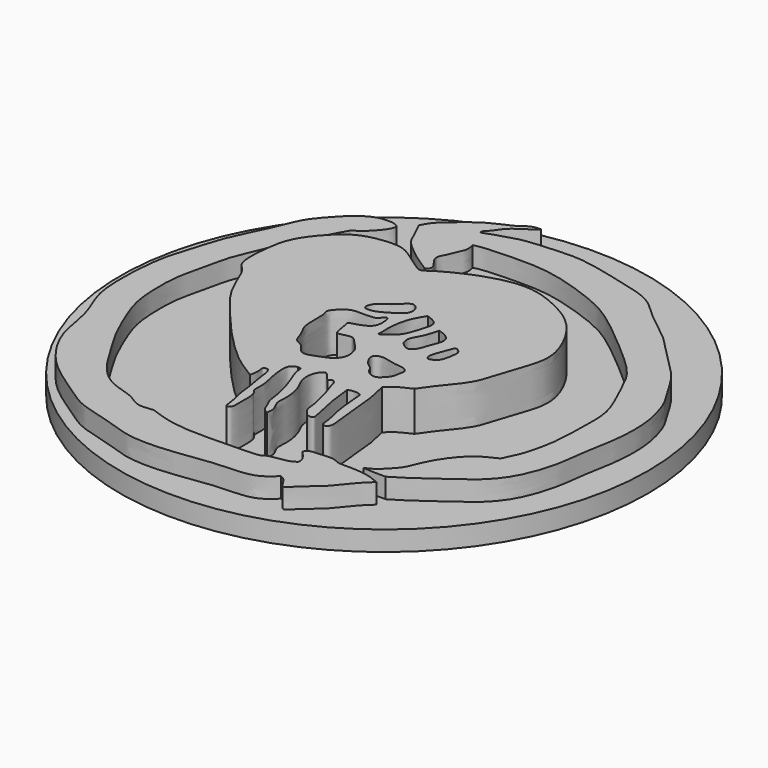
from build123d import *

# Parameters (mm, degrees)
F1_DEPTH = 2.5
F2_DEPTH = 5
F3_R     = 33.2073024062
F4_DEPTH = 2.5


with BuildPart() as f1:
    # F0 (on Top) → F1 (new body)
    with BuildSketch(Plane.XY):
        with BuildLine():
            add(Edge.make_bspline(
                [(34.7118526697, 65.6749159098), (35.2326607955, 66.0444424847), (36.2611343323, 66.7741705451), (37.4148923919, 68.1495157399), (37.8726544228, 69.0916354904), (37.5784563957, 69.5421438923), (37.0983525122, 69.64263447), (36.8212088943, 69.7006434202)],
                knots=[0, 0, 0, 0, 0.2655577649, 0.5244141176, 0.7094420157, 0.8322731939, 1, 1, 1, 1], degree=3))
            add(Edge.make_bspline(
                [(36.8212088943, 69.7006434202), (36.2704336366, 69.7096377101), (35.0826391067, 69.729034675), (33.0561657593, 68.5081512882), (31.4902472814, 66.8426275387), (29.5812318593, 64.6923044475), (28.7322620621, 62.0910658547), (27.0684525034, 58.7960648264), (25.7989685176, 55.9485771438), (25.0076935395, 52.8210715361), (24.0299638992, 50.2254922171), (23.6550974683, 46.6462323896), (23.5545603617, 44.5146096416), (23.5884571025, 39.6703258772), (25.6743630292, 35.9956811898), (26.0359713713, 31.1238433101), (28.4730569899, 26.9930051522), (31.1585605984, 24.3816132893), (34.8588473512, 22.0156926687), (37.2386408509, 20.2447628922), (41.6922339228, 19.275513705), (44.9392749536, 17.8724141659), (50.2227695975, 17.9581770095), (55.2715978544, 18.9472902649), (60.0285037844, 18.7552860261), (61.4710654048, 20.1249941503), (62.0954409242, 20.7178369164)],
                knots=[0, 0, 0, 0, 0.0289877039, 0.0625144932, 0.096706835, 0.1339329384, 0.1709821896, 0.213709129, 0.2535798432, 0.2931080396, 0.3309258548, 0.3722860033, 0.4057647429, 0.453597648, 0.4997635275, 0.5485601575, 0.5967164535, 0.6402757678, 0.6863578212, 0.7251840232, 0.7717780639, 0.814144168, 0.8645222178, 0.9164315115, 0.9638295393, 1, 1, 1, 1], degree=3))
            add(Edge.make_bspline(
                [(62.0954409242, 20.7178369164), (62.3103137754, 20.6108868846), (62.7960268201, 20.3691298393), (63.3675821674, 19.2505827969), (63.836658855, 18.9579182012), (64.8361463425, 20.2402681563), (67.1404858531, 21.8715764779), (68.7213264589, 24.2581727275), (69.9631789875, 25.3075227018), (70.1304834806, 25.5213443559), (70.1823234558, 25.5875978619)],
                knots=[0, 0, 0, 0, 0.0977587794, 0.22098052, 0.288687055, 0.4183923972, 0.6101179817, 0.8020862474, 0.9386756218, 1, 1, 1, 1], degree=3))
            add(Edge.make_bspline(
                [(70.1823234558, 25.5875978619), (69.7429791573, 25.7671780636), (68.8085511871, 26.1491217101), (67.1406223218, 26.430622982), (64.9634246663, 26.356971648), (64.5883404163, 26.4693612455), (63.7540282111, 26.9073980608), (62.1631773589, 26.7400292134), (60.6401735091, 26.6683040378), (60.5428832484, 26.2511067311), (60.5074763298, 26.0992757976)],
                knots=[0, 0, 0, 0, 0.1379288692, 0.2933566994, 0.4595300648, 0.5305999117, 0.6352647261, 0.7859208029, 0.9220899948, 1, 1, 1, 1], degree=3))
            add(Edge.make_bspline(
                [(60.5074763298, 26.0992757976), (60.6363447658, 25.9447694141), (60.9258960873, 25.5976128185), (61.6027046406, 24.7575978509), (61.5402193347, 24.3147209084), (61.5131892264, 24.1231396794)],
                knots=[0, 0, 0, 0, 0.3127482065, 0.7027062586, 1, 1, 1, 1], degree=3))
            add(Edge.make_bspline(
                [(61.5131892264, 24.1231396794), (61.2563435452, 23.9534794127), (60.6293894678, 23.5393428173), (58.2406367023, 23.388419651), (57.8849118678, 22.7136947651), (54.2156531332, 22.7490350651), (49.9835501682, 22.5468737617), (46.3591721862, 22.8667454603), (44.4743991194, 23.5516896253), (43.5816496611, 23.8761231303)],
                knots=[0, 0, 0, 0, 0.0952062085, 0.2323960456, 0.3054817729, 0.4725808666, 0.6698017517, 0.8435969229, 1, 1, 1, 1], degree=3))
            add(Edge.make_bspline(
                [(43.5816496611, 23.8761231303), (42.8300010198, 23.7855173301), (41.3829789139, 23.6110892948), (39.9807606555, 24.9815293288), (36.6761157745, 25.5673905419), (34.1362987275, 27.9893324173), (32.5510096325, 30.7895428732), (30.4048170868, 34.1644167366), (29.0154797001, 37.5020404528), (27.7014810967, 40.7998376033), (27.5112270101, 44.2625386946), (27.5474780533, 47.5704417933), (28.534917299, 50.9223452409), (28.9646618514, 53.7636921523), (30.2852635731, 56.5626181982), (31.4574668844, 59.7348292713), (33.1452064144, 62.7742480897), (34.1944918387, 64.717014974), (34.7118526697, 65.6749159098)],
                knots=[0, 0, 0, 0, 0.0507885336, 0.0977745808, 0.1608646394, 0.2256180668, 0.2887845933, 0.3587098574, 0.4258154258, 0.491507373, 0.5564236918, 0.6203758771, 0.6856006618, 0.7449412084, 0.8061343063, 0.870855552, 0.9363240188, 1, 1, 1, 1], degree=3))
        make_face()
    extrude(amount=F1_DEPTH)


with BuildPart() as f1b:
    # F0 (on Top) → F1, piece 2 (new body)
    with BuildSketch(Plane.XY):
        with BuildLine():
            add(Edge.make_bspline(
                [(67.3089176416, 27.1220263094), (67.658164969, 27.2828355743), (68.3997166779, 27.6242795191), (69.4606031622, 28.6974096127), (70.4265682539, 29.749803922), (70.9616218915, 31.2810921959), (71.8373726468, 33.0337940737), (72.9768363636, 34.6040965084), (74.3711808633, 36.0554510196), (75.8276504729, 36.753454526), (76.5967667103, 37.1220484376)],
                knots=[0, 0, 0, 0, 0.1032528852, 0.2192353311, 0.332159178, 0.4520714466, 0.5851843868, 0.7173143032, 0.8507224881, 1, 1, 1, 1], degree=3))
            add(Edge.make_bspline(
                [(70.1823234558, 27.034856379), (69.8396790131, 27.0298549014), (69.0597594991, 27.0184706515), (67.937904582, 27.0848241165), (67.3089176416, 27.1220263094)],
                knots=[0, 0, 0, 0, 0.4393330806, 1, 1, 1, 1], degree=3))
            add(Edge.make_bspline(
                [(45.0084544718, 73.7691968679), (44.9839728131, 73.6341418448), (44.9285162968, 73.3290786428), (45.6005902762, 73.6574050342), (47.4334020026, 74.2053385797), (49.2339629419, 74.8241096766), (52.4980247548, 75.0267670409), (55.9263681007, 75.2647907553), (59.269364707, 74.5958440135), (63.0580918437, 73.62161974), (66.6872261032, 72.6974172649), (68.7928699874, 70.4987618345), (70.6850085595, 68.9668290012), (73.250092566, 67.0926972703), (75.1913672862, 64.7642833742), (78.8625320051, 61.4864650608), (80.3225958717, 58.6782960465), (81.9345148694, 56.3614887373), (82.8342048329, 53.2064634181), (83.095115943, 50.6109278985), (82.9564631728, 47.1892705207), (82.0881412498, 43.1779726959), (81.8174322914, 39.6626216764), (80.385016426, 35.2397785595), (78.1548349655, 32.5471593294), (76.0557495983, 31.0985008718), (73.4879651941, 29.1613428557), (71.3562714682, 27.7218887483), (70.5266195357, 27.2363495874), (70.1823234558, 27.034856379)],
                knots=[0, 0, 0, 0, 0.0124098952, 0.0280319177, 0.0588750577, 0.0899339363, 0.1295652748, 0.1708128213, 0.2114766235, 0.2555106931, 0.2980579703, 0.3357763852, 0.3704402569, 0.4090745544, 0.4482997553, 0.497033527, 0.5364563837, 0.5733059162, 0.6128618858, 0.6485918363, 0.6893335895, 0.7340057804, 0.7759951527, 0.8233422964, 0.8641853762, 0.8993496766, 0.9392729639, 0.9747968839, 1, 1, 1, 1], degree=3))
            add(Edge.make_bspline(
                [(49.2378622293, 77.6719376445), (48.993220912, 77.4405925331), (48.4388411992, 76.9620166329), (47.3182601057, 76.3178225344), (46.2933206041, 75.4836116502), (45.7448009924, 74.5004152969), (45.2499205118, 74.0090819481), (45.0084544718, 73.7691968679)],
                knots=[0, 0, 0, 0, 0.1906614848, 0.4029487049, 0.6159662038, 0.8117872505, 1, 1, 1, 1], degree=3))
            add(Edge.make_bspline(
                [(39.3222160637, 70.8313211799), (39.5246124876, 71.2276909414), (39.9840769244, 72.1274686655), (41.7268378676, 73.5865050561), (43.5072966927, 75.0832698896), (45.4494218537, 76.0768852538), (47.0009816856, 76.6622295813), (48.0210677715, 77.6445263811), (48.8510057218, 77.6614886975), (49.2378622293, 77.6719376445)],
                knots=[0, 0, 0, 0, 0.1285496042, 0.2909927153, 0.4588104007, 0.6185878275, 0.7580308662, 0.8832833154, 1, 1, 1, 1], degree=3))
            add(Edge.make_bspline(
                [(45.4910546541, 64.033344388), (45.1564584804, 64.2391299008), (44.4110217689, 64.6975932304), (42.9603188664, 65.7404655572), (40.7630525993, 67.4813577263), (40.1869572297, 69.1507318517), (39.6136821803, 70.2648686223), (39.3222160637, 70.8313211799)],
                knots=[0, 0, 0, 0, 0.162143043, 0.361233589, 0.6049214018, 0.7991330254, 1, 1, 1, 1], degree=3))
            add(Edge.make_bspline(
                [(46.0922494531, 70.8313211799), (46.1580387301, 70.5605553418), (46.2867079146, 70.0309976212), (46.1163287527, 69.2898193342), (45.6625677099, 68.2893232974), (45.2173394208, 67.3322732708), (44.8799533318, 66.70192863), (45.1171326273, 65.9055632413), (45.6342681687, 65.3280878083), (45.9198703429, 64.8608328909), (45.9697875738, 64.3429552485), (45.6557048863, 64.1398286049), (45.4910546541, 64.033344388)],
                knots=[0, 0, 0, 0, 0.1048876815, 0.2051369623, 0.3282308301, 0.4492363836, 0.5452175888, 0.6474416081, 0.750825144, 0.8370461591, 0.9145754007, 1, 1, 1, 1], degree=3))
            add(Edge.make_bspline(
                [(76.5967667103, 37.1220484376), (76.9451373256, 37.8104169663), (77.6607407656, 39.2244251103), (78.2971429517, 41.9007449298), (78.6220468648, 43.8728192929), (78.7139513921, 48.2447018521), (78.7408006954, 51.6142913053), (76.7669849489, 55.5429036964), (75.3588975828, 58.9744922651), (72.1354825543, 61.8659423305), (68.8623566022, 64.7038266486), (66.0351624363, 66.9200383398), (63.5126716198, 68.5511114512), (59.6033341079, 70.009340864), (55.3326375175, 71.2275690117), (51.3830856129, 71.2885367654), (47.123296459, 71.1317278293), (46.3461232716, 70.9052900511), (46.0922494531, 70.8313211799)],
                knots=[0, 0, 0, 0, 0.0523047722, 0.1074415387, 0.1562362535, 0.226138647, 0.2894417288, 0.3592294766, 0.4246271596, 0.4944697629, 0.5657832538, 0.6295355976, 0.6878690496, 0.7569257042, 0.8281804669, 0.8976138236, 0.9665542121, 1, 1, 1, 1], degree=3))
        make_face()
    extrude(amount=F1_DEPTH)


with BuildPart() as f2:
    # F0 (on Top) → F2 (new body)
    with BuildSketch(Plane.XY):
        with BuildLine():
            add(Edge.make_bspline(
                [(49.2378622293, 31.8863242865), (48.4841770662, 32.4134046071), (46.6099525019, 33.3936259805), (42.677785414, 37.1330948661), (39.3472812131, 41.1028706593), (36.2118513876, 44.8653807058), (34.9893206989, 49.0028879279), (33.3555110281, 49.723079578), (33.6948679223, 54.6876671239), (34.4709053224, 57.4079053312), (36.7847428165, 60.2209940068), (39.113445619, 62.1038056212), (42.96746718, 62.6136296298), (44.9565614732, 62.1108205031), (47.7569505181, 59.8269825512), (48.5423163931, 59.6548498806), (49.2960125589, 60.3078992709), (51.7788376586, 61.6776498755), (55.1031970482, 63.0287862873), (59.1757251374, 63.7260482302), (62.7205946863, 62.4844008706), (65.8969452901, 60.8004178807), (68.34285022, 58.0089513295), (70.1589136991, 53.8411726715), (69.5301600249, 50.7188513332), (68.192136194, 47.3009130659), (67.6262571298, 44.4653777932), (64.869158256, 41.3847395082), (64.0629004277, 40.1722864088), (63.7267380953, 39.6667644382)],
                knots=[0, 0, 0, 0, 0.0354214787, 0.08316585, 0.1308221072, 0.1771148502, 0.2182200013, 0.2432120116, 0.2869477481, 0.3231810484, 0.3613577455, 0.3974017518, 0.4366085905, 0.4672843706, 0.5056846717, 0.5225238562, 0.5415059452, 0.575889451, 0.6158216249, 0.6572162044, 0.6968107071, 0.7354722165, 0.7752402113, 0.8182635516, 0.8547628539, 0.8937319783, 0.9292309068, 0.9705094904, 1, 1, 1, 1], degree=3))
            add(Edge.make_bspline(
                [(51.4758192003, 25.4418104887), (51.4348426933, 25.8103429934), (51.3509003403, 26.5652994205), (50.9797514089, 27.8224972), (50.8195147982, 29.1378284903), (50.6736980834, 30.4597440556), (50.3259529252, 31.9804649203), (50.2483306535, 33.2691143211), (49.9261426752, 33.9935362589), (49.5300217951, 33.929244978), (49.3023110625, 33.7876382729), (49.3641343159, 33.3355095934), (49.4324801178, 32.7332753913), (49.3162799056, 32.2329856464), (49.2378622293, 31.8863242865)],
                knots=[0, 0, 0, 0, 0.095215703, 0.1978758121, 0.3011124397, 0.4049343477, 0.5178143868, 0.621731387, 0.6949094396, 0.7455479203, 0.7882604704, 0.8455017787, 0.9151579651, 1, 1, 1, 1], degree=3))
            add(Edge.make_bspline(
                [(51.9169233739, 36.1341126263), (51.6765647714, 36.0535313598), (51.2268816225, 35.902773129), (50.9927938226, 35.3460669934), (50.9510772891, 34.5342909264), (51.1213321616, 33.2005658685), (51.3838749864, 31.9915194797), (51.62016757, 31.0788165379), (51.4425691632, 29.5533907315), (52.0200893874, 29.2186544525), (52.2042726416, 27.9872364662), (52.0808951312, 26.6086072481), (52.2162578294, 25.6202090248), (51.7186942049, 25.0989008088), (51.5507206627, 25.3360588222), (51.4758192003, 25.4418104887)],
                knots=[0, 0, 0, 0, 0.0685726099, 0.128291423, 0.2014747193, 0.2971636681, 0.3877170229, 0.4695645135, 0.566194697, 0.6273090672, 0.7151349159, 0.814149185, 0.8953442783, 0.9533327303, 1, 1, 1, 1], degree=3))
            add(Edge.make_bspline(
                [(55.5515997112, 26.7121829093), (55.3244653739, 26.8072130401), (54.8172626348, 27.0194202442), (54.5490199509, 28.204924633), (54.1205339303, 28.7071228569), (54.0522027531, 29.7490497142), (53.8028240036, 31.0265502878), (53.3560314348, 32.7097164315), (52.8088383557, 34.0081748051), (52.290313065, 35.4394876993), (52.3700741633, 36.0898820996), (52.0591033512, 36.1202349162), (51.9169233739, 36.1341126263)],
                knots=[0, 0, 0, 0, 0.0863928001, 0.1929195972, 0.2741335291, 0.3727590541, 0.489189688, 0.6208290359, 0.7433633101, 0.866780128, 0.9390901087, 1, 1, 1, 1], degree=3))
            add(Edge.make_bspline(
                [(55.8651685715, 35.777553916), (55.6188287498, 36.0584662435), (55.2002451106, 36.5357959076), (54.7579083781, 37.0658662722), (54.0970537228, 36.4134371972), (53.7571436422, 35.3659510233), (53.9176725086, 34.0653544857), (54.5286797474, 33.0281836391), (54.9357818125, 31.7910491077), (55.1073475093, 30.2584310774), (54.895669145, 28.9539375518), (55.4544921653, 28.0953496023), (55.6789376321, 27.4269565531), (55.5943318602, 26.9520471509), (55.5515997112, 26.7121829093)],
                knots=[0, 0, 0, 0, 0.0855699845, 0.1454015647, 0.2156660423, 0.3037716067, 0.3973335343, 0.48785424, 0.582337977, 0.6858110477, 0.7800406463, 0.8615534776, 0.9300743048, 1, 1, 1, 1], degree=3))
            add(Edge.make_bspline(
                [(57.9184293747, 31.5634571016), (57.8110680785, 32.1002488733), (57.6094550908, 32.8442055345), (57.3640694688, 33.7954428341), (56.9861486994, 34.7281945584), (56.7207552491, 35.9845105127), (56.1489402009, 36.1045000905), (55.962688367, 35.8736597151), (55.8651685715, 35.777553916)],
                knots=[0, 0, 0, 0, 0.2104800334, 0.3841843409, 0.5705501072, 0.7689382611, 0.8856643302, 1, 1, 1, 1], degree=3))
            add(Edge.make_bspline(
                [(58.6990006268, 35.3621244431), (58.7540719052, 34.8295771819), (58.8656291822, 33.7508005785), (59.1164504919, 32.0707480864), (59.5234345847, 30.3985981578), (59.7843982276, 29.2200528628), (59.7962103527, 28.6592935221), (59.4158729696, 28.6319228024), (58.9335892004, 28.6601373609), (58.7022244668, 29.059937375), (58.0082277809, 29.8225149194), (58.1149983706, 30.908217764), (57.9184293747, 31.5634571016)],
                knots=[0, 0, 0, 0, 0.1290598656, 0.2620663983, 0.3970553056, 0.509553404, 0.5764035465, 0.6326173054, 0.7008955889, 0.7667812688, 0.8646079467, 1, 1, 1, 1], degree=3))
            add(Edge.make_bspline(
                [(60.3458881378, 35.3621244431), (60.068286726, 35.4439637635), (59.5154801021, 35.6069359837), (58.9703728432, 35.443492135), (58.6990006268, 35.3621244431)],
                knots=[0, 0, 0, 0, 0.5021673037, 1, 1, 1, 1], degree=3))
            add(Edge.make_bspline(
                [(61.033654958, 37.9216335714), (61.2082258462, 37.2151133767), (61.5837049566, 35.6954809977), (61.8412725439, 32.6864650644), (62.0218303999, 30.1882524755), (62.4229109655, 28.2100312279), (61.2920550067, 27.7994794527), (61.3229275059, 29.303031147), (60.7762438411, 31.1075572823), (60.5266289321, 33.1132409493), (60.407247487, 34.5986552545), (60.3458881378, 35.3621244431)],
                knots=[0, 0, 0, 0, 0.1214677708, 0.2612612618, 0.3932944732, 0.5005019613, 0.5641305394, 0.6502507856, 0.7642167781, 0.8788127834, 1, 1, 1, 1], degree=3))
            add(Edge.make_bspline(
                [(63.7267380953, 39.6667644382), (63.1458469038, 39.4088523276), (62.0567587323, 38.9253038886), (61.3591686885, 38.2409642956), (61.033654958, 37.9216335714)],
                knots=[0, 0, 0, 0, 0.5333738871, 1, 1, 1, 1], degree=3))
        make_face()
        with BuildLine():
            add(Edge.make_bspline(
                [(49.8335398734, 46.549577266), (49.9632323016, 45.8469985434), (50.1631925438, 44.7637601969), (50.2789476306, 43.8761783359), (52.0758419703, 44.7139163289), (52.77769903, 43.80279889), (53.9570664405, 42.7189624129), (54.0690164445, 42.161586539), (54.1148409247, 41.9334359467)],
                knots=[0, 0, 0, 0, 0.2121806423, 0.327140861, 0.5167634317, 0.6744464749, 0.8667412189, 1, 1, 1, 1], degree=3))
            add(Edge.make_bspline(
                [(54.1148409247, 41.9334359467), (54.1794180869, 41.6510377323), (54.3221375052, 41.0269206672), (53.6667619197, 39.7103639504), (51.8863405893, 39.1211728589), (50.1221855159, 38.380648754), (49.2494351817, 40.2050119689), (48.0972878104, 40.3061290778), (47.7323735276, 42.0905959982), (46.6905669647, 43.3239151717), (47.0531885588, 46.3896336158), (46.4954610866, 47.1657409326), (47.2798842861, 48.1314007677), (48.3876978738, 49.0429720592), (49.8866131273, 48.9100229488), (50.9641156727, 48.9710252004), (51.5229288662, 49.0602480764), (52.3136478652, 50.2937250429), (52.5829034701, 48.4571887221), (52.1909127439, 47.2127402215), (50.696300771, 46.7922843379), (49.8335398734, 46.549577266)],
                knots=[0, 0, 0, 0, 0.0426087148, 0.0941678263, 0.1568310101, 0.2143772986, 0.2722388098, 0.3170452942, 0.3735993519, 0.432501157, 0.5095982467, 0.5504767394, 0.5970844247, 0.651052879, 0.7059867878, 0.7523952025, 0.7870207712, 0.8297985382, 0.8796378532, 0.9305212619, 1, 1, 1, 1], degree=3))
        make_face(mode=Mode.SUBTRACT)
        with BuildLine():
            add(Edge.make_bspline(
                [(58.9575357735, 39.2195135355), (59.2144357301, 39.2018604088), (59.6113841455, 39.4517417266), (60.4715058072, 40.3419310676), (60.4949615568, 41.2098608291), (60.7637730613, 41.9540142458), (60.1674767642, 42.5072141958), (59.1213766952, 42.5157793181), (58.0632783841, 42.7857514744), (57.0573040996, 43.0239531345), (56.3301142069, 42.8071186982), (56.0579506475, 42.2989965113), (56.3797141197, 41.5348492422), (56.8757836593, 40.8452714902), (57.6902466422, 40.4322103633), (57.7742456854, 39.662516405), (58.6232093301, 39.2424870975), (58.9575357735, 39.2195135355)],
                knots=[0, 0, 0, 0, 0.0603291014, 0.1391013171, 0.2069118659, 0.2678400628, 0.3266973628, 0.4004499489, 0.4776358136, 0.5514908291, 0.6118661523, 0.6622158439, 0.7262583943, 0.7943346522, 0.8605122837, 0.9214884496, 1, 1, 1, 1], degree=3))
        make_face(mode=Mode.SUBTRACT)
        with BuildLine():
            add(Edge.make_bspline(
                [(60.4948215187, 46.0040308535), (60.4850717123, 46.3985497743), (60.8803210874, 47.3973531671), (61.2738139332, 48.4443611496), (61.4770675172, 49.0950461826), (62.3461685835, 48.4750879191), (62.2715041737, 47.6936053781), (62.0108399239, 46.0508479907), (61.3893946911, 45.6230817356), (60.6855020591, 45.3553754222), (60.5009277414, 45.7569469296), (60.4948215187, 46.0040308535)],
                knots=[0, 0, 0, 0, 0.1428396411, 0.2738912926, 0.3542180649, 0.4579234, 0.5646744418, 0.7153849131, 0.8181175693, 0.910540719, 1, 1, 1, 1], degree=3))
        make_face(mode=Mode.SUBTRACT)
        with BuildLine():
            add(Edge.make_bspline(
                [(49.119990319, 50.1585565507), (49.2945534699, 49.9217882826), (50.4227506846, 49.9749805668), (51.8965654884, 50.8911062467), (53.257070111, 51.7400883949), (53.3797532079, 52.9543560423), (52.2499042031, 54.0637961368), (50.9811069144, 52.2463295737), (49.275301063, 51.5369805789), (48.9467081062, 50.3935874218), (49.119990319, 50.1585565507)],
                knots=[0, 0, 0, 0, 0.111686475, 0.2552266751, 0.3844297787, 0.4919136525, 0.6005396005, 0.741967614, 0.8891330763, 1, 1, 1, 1], degree=3))
        make_face(mode=Mode.SUBTRACT)
        with BuildLine():
            add(Edge.make_bspline(
                [(55.0802312791, 52.5505542755), (55.6412962632, 52.3659564689), (56.8183441557, 51.9186222445), (56.4044740457, 50.2179080277), (55.6907990797, 48.0794896333), (55.0863309223, 47.541324781), (53.5071296618, 46.1811534054), (53.6463535262, 46.7959670899), (53.6951087415, 47.0111891627)],
                knots=[0, 0, 0, 0, 0.1832481194, 0.3615475623, 0.5760890123, 0.7218161767, 0.9015173931, 1, 1, 1, 1], degree=3))
            add(Edge.make_bspline(
                [(53.6951087415, 47.0111891627), (53.6595049278, 47.4353952613), (53.5770903719, 48.4173338125), (53.9811979507, 50.8318741669), (54.7236095899, 51.9928654523), (55.0802312791, 52.5505542755)],
                knots=[0, 0, 0, 0, 0.283275671, 0.6557173575, 1, 1, 1, 1], degree=3))
        make_face(mode=Mode.SUBTRACT)
        with BuildLine():
            add(Edge.make_bspline(
                [(57.892460376, 50.8299954236), (58.2088660478, 50.741107226), (58.8315162587, 50.5661854091), (59.5942290611, 49.9207963876), (59.6473971068, 49.0174342141), (59.1362944334, 48.0249230631), (58.7881014432, 46.5434584335), (57.8899146459, 45.6244198705), (57.1787335145, 46.2287314924), (56.801147759, 46.549577266)],
                knots=[0, 0, 0, 0, 0.1363871354, 0.2683942993, 0.391594741, 0.5368874251, 0.7091175514, 0.8455624534, 1, 1, 1, 1], degree=3))
            add(Edge.make_bspline(
                [(56.801147759, 46.549577266), (56.6895066527, 46.8852050273), (56.4476377117, 47.6123380156), (57.350580099, 48.8255876246), (57.6995450658, 50.1164043064), (57.892460376, 50.8299954236)],
                knots=[0, 0, 0, 0, 0.2771198331, 0.6003763562, 1, 1, 1, 1], degree=3))
        make_face(mode=Mode.SUBTRACT)
    extrude(amount=F2_DEPTH)


with BuildPart() as f4:
    # F3 (on face) → F4 (new body)
    with BuildSketch(Plane(origin=(0, 0, 0), x_dir=(1, 0, 0), z_dir=(0, 0, -1))):
        with Locations((53.3518884331, -47.8428453207)):
            Circle(F3_R)
    extrude(amount=F4_DEPTH)


solid = Compound([f1.part, f1b.part, f2.part, f4.part])
